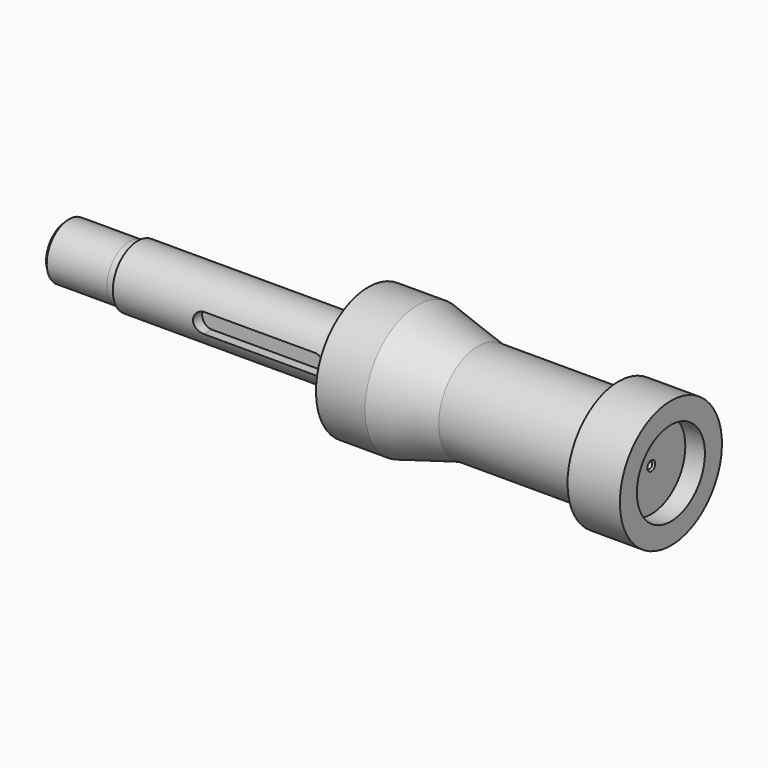
from build123d import *

# Parameters (mm, degrees)
F3_START             = 6
F3_DEPTH             = 9.4
F4_R                 = 13
F5_DEPTH             = 6
F8_D                 = 2
F8_DEPTH             = 6.3
F8_CSINK_D           = 3
F8_CSINK_ANGLE       = 90
F8_TIP               = 0.600860619
F8_ON_F6_D           = 2
F8_ON_F6_DEPTH       = 6.3
F8_ON_F6_CSINK_D     = 3
F8_ON_F6_CSINK_ANGLE = 90
F8_ON_F6_TIP         = 0.600860619


with BuildPart() as f1:
    # F0 (on Front) → F1 (revolve)
    with BuildSketch(Plane.XZ):
        Polygon((1, 8.5), (0, 7.5), (0, 0), (169, 0), (169, 15), (126, 15), (107.5, 20), (92.5, 20), (92.5, 9.5), (22, 9.5), (22, 8.6), (19.5, 8.6), (19.5, 8.5), align=None)
        Polygon((169, 15), (169, 0), (185, 0), (185, 19.5), (169, 19.5), align=None)
    revolve(axis=Axis((105.2958741784, 0, 0), (1, 0, 0)))

    # F2 (on Front) → F3 (cut)
    with BuildSketch(Plane.XZ.offset(F3_START)):
        with BuildLine():
            ThreePointArc((83.5, -3), (86.5, 0), (83.5, 3))
            Line((83.5, 3), (49.5, 3))
            ThreePointArc((49.5, 3), (46.5, 0), (49.5, -3))
            Line((49.5, -3), (83.5, -3))
        make_face()
    extrude(amount=F3_DEPTH, mode=Mode.SUBTRACT)

    # F4 (on face) → F5 (cut)
    with BuildSketch(Plane.YZ.offset(185)):
        Circle(F4_R)
    extrude(amount=-F5_DEPTH, mode=Mode.SUBTRACT)

    # F8
    with Locations(Plane(origin=(0, 0, 0), x_dir=(0, -1, 0), z_dir=(-1, 0, 0))):
        with Locations((0, 0)):
            CounterSinkHole(F8_D / 2, F8_CSINK_D / 2, depth=F8_DEPTH, counter_sink_angle=F8_CSINK_ANGLE)
            with Locations((0, 0, -(F8_DEPTH + F8_TIP / 2))):  # 118° drill point
                Cone(0, F8_D / 2, F8_TIP, mode=Mode.SUBTRACT)

    # F8 on F6
    with Locations(Plane.YZ.offset(179)):
        with Locations((0, 0)):
            CounterSinkHole(F8_ON_F6_D / 2, F8_ON_F6_CSINK_D / 2, depth=F8_ON_F6_DEPTH, counter_sink_angle=F8_ON_F6_CSINK_ANGLE)
            with Locations((0, 0, -(F8_ON_F6_DEPTH + F8_ON_F6_TIP / 2))):  # 118° drill point
                Cone(0, F8_ON_F6_D / 2, F8_ON_F6_TIP, mode=Mode.SUBTRACT)


solid = f1.part
